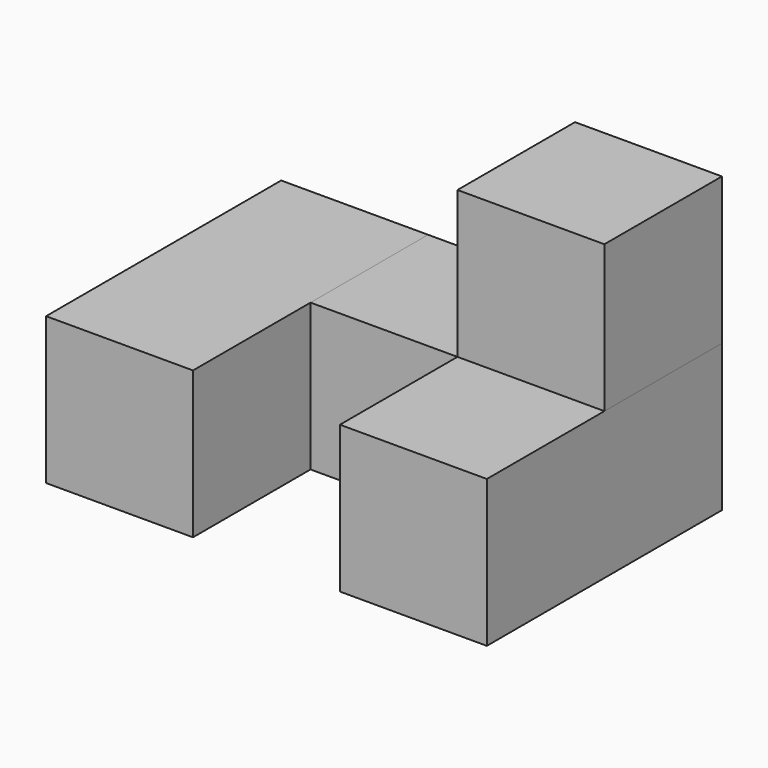
from build123d import *

# Parameters (mm, degrees)
F0_W     = 19.05
F0_H     = 19.05
F1_DEPTH = 38.1
F2_DEPTH = 19.05


with BuildPart() as f1:
    # F0 (on Front) → F1 (new body)
    with BuildSketch(Plane.XZ):
        with Locations((-14.385677, -28.575)):
            Rectangle(F0_W, F0_H)
        with Locations((23.714323, -28.575)):
            Rectangle(F0_W, F0_H)
    extrude(amount=F1_DEPTH)


with BuildPart() as f2:
    # F0 (on Front) → F2 (new body)
    with BuildSketch(Plane.XZ):
        with Locations((23.714323, -9.525)):
            Rectangle(F0_W, F0_H)
        with Locations((4.664323, -28.575)):
            Rectangle(F0_W, F0_H)
    extrude(amount=F2_DEPTH)


solid = Compound([f1.part, f2.part])
